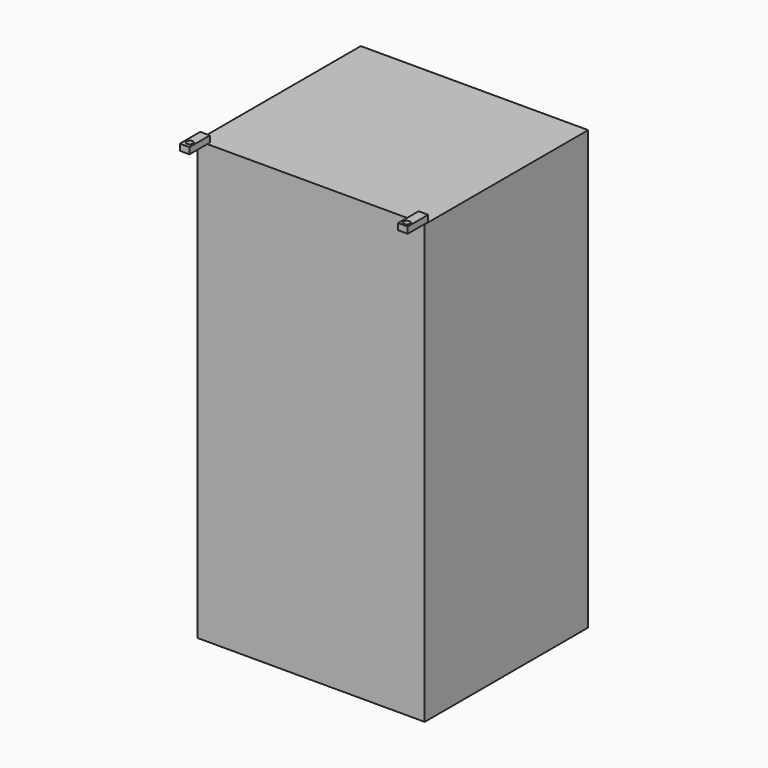
from build123d import *

# Parameters (mm, degrees)
F0_W     = 904.875
F0_H     = 1743.075
F1_DEPTH = 812.8
F2_W     = 38.1
F2_H     = 101.6
F2_R     = 12.7
F3_DEPTH = 25.4


with BuildPart() as f1:
    # F0 (on Front) → F1 (new body)
    with BuildSketch(Plane.XZ):
        with Locations((-1.664946, 168.443598)):
            Rectangle(F0_W, F0_H)
    extrude(amount=F1_DEPTH)

    # F2 (on face) → F3 (join)
    with BuildSketch(Plane.XY.offset(1039.981098)):
        with Locations((-433.464946, -850.9)):
            Rectangle(F2_W, F2_H)
        with Locations((-433.464946, -876.3)):
            Circle(F2_R, mode=Mode.SUBTRACT)
        with Locations((430.135054, -844.55)):
            Rectangle(F2_W, F2_H)
        with Locations((430.135054, -876.3)):
            Circle(F2_R, mode=Mode.SUBTRACT)
    extrude(amount=F3_DEPTH)


solid = f1.part
